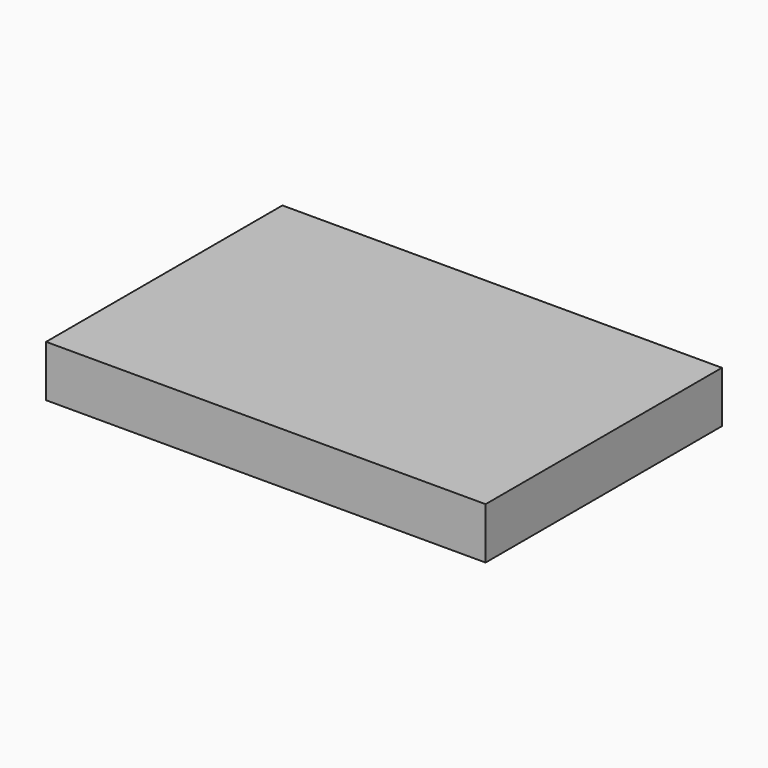
from build123d import *

# Parameters (mm, degrees)
F0_W     = 217.118316
F0_H     = 145.922624
F1_DEPTH = 25.4
F2_W     = 99.202577
F2_H     = 97.642794
F3_DEPTH = 25


with BuildPart() as f1:
    # F0 (on Top) → F1 (new body)
    with BuildSketch(Plane.XY):
        with Locations((-2.840694, 4.440766)):
            Rectangle(F0_W, F0_H)
    extrude(amount=F1_DEPTH)

    # F2 (on Top) → F3 (cut)
    with BuildSketch(Plane.XY):
        with Locations((-0.189052, 0.13056)):
            Rectangle(F2_W, F2_H)
    extrude(amount=-F3_DEPTH, mode=Mode.SUBTRACT)


solid = f1.part
